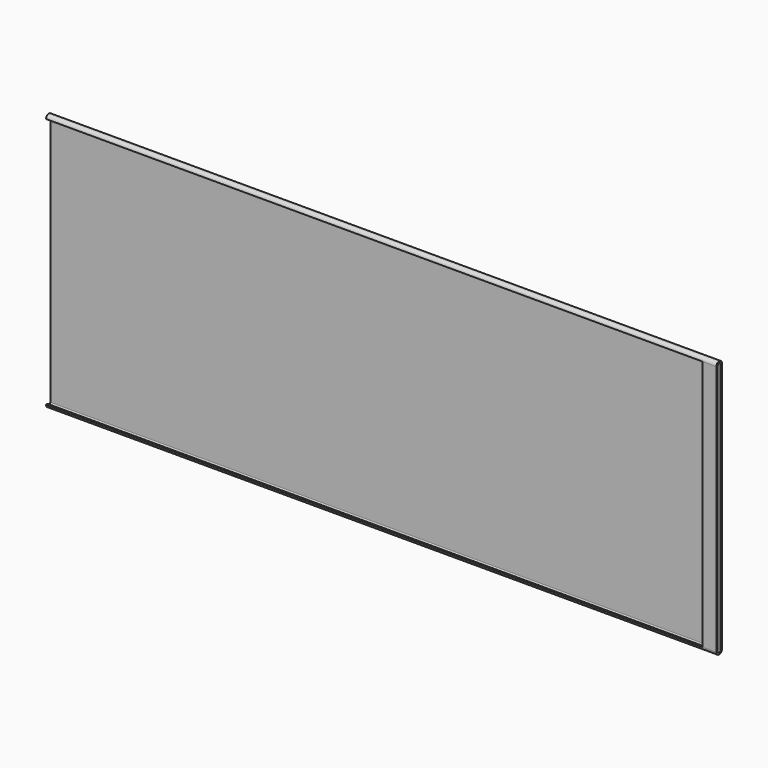
from build123d import *

# Parameters (mm, degrees)
F0_W     = 1.5875
F0_H     = 228.6
F1_DEPTH = 609.6
F2_W     = 596.9
F2_H     = 228.6
F3_DEPTH = 1.5875


with BuildPart() as f1:
    # F0 (on Right) → F1 (new body)
    with BuildSketch(Plane.YZ):
        with BuildLine():
            ThreePointArc((-6.35, -90.428498), (-3.175, -93.603498), (0, -90.428498))
            Line((0, -90.428498), (0, 138.171502))
            ThreePointArc((0, 138.171502), (-3.175, 141.346502), (-6.35, 138.171502))
            Line((-6.35, 138.171502), (-4.7625, 138.171502))
            ThreePointArc((-4.7625, 138.171502), (-3.175, 139.759002), (-1.5875, 138.171502))
            Line((-1.5875, 138.171502), (-1.5875, -90.428498))
            ThreePointArc((-1.5875, -90.428498), (-3.175, -92.015998), (-4.7625, -90.428498))
            Line((-4.7625, -90.428498), (-6.35, -90.428498))
        make_face()
        with Locations((-5.55625, 23.871502)):
            Rectangle(F0_W, F0_H)
    extrude(amount=-F1_DEPTH)

    # F2 (on face) → F3 (cut, through all)
    with BuildSketch(Plane.XZ.offset(6.35)):
        with Locations((-311.15, 23.871502)):
            Rectangle(F2_W, F2_H)
    extrude(amount=-F3_DEPTH, mode=Mode.SUBTRACT)


solid = f1.part
